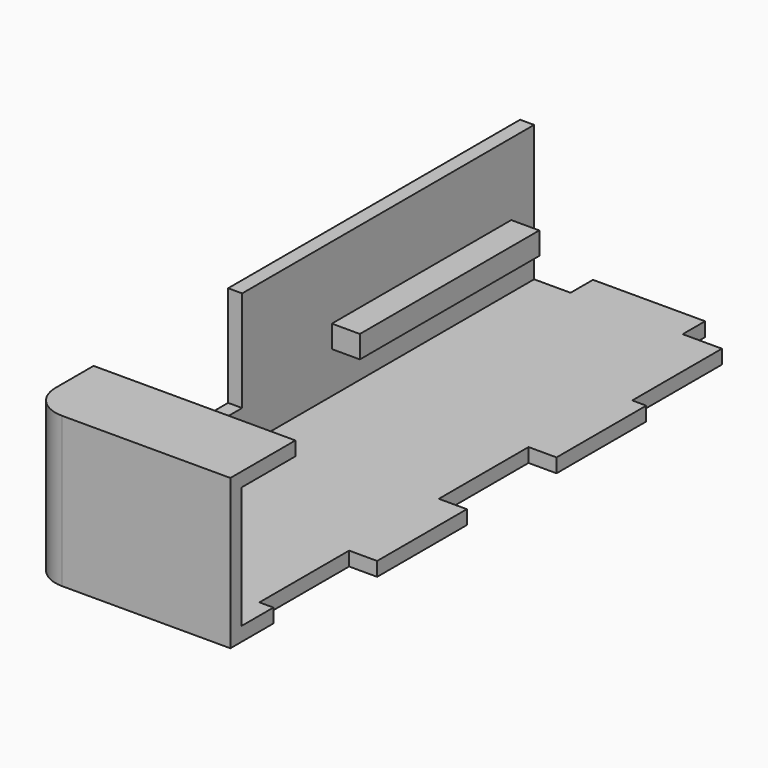
from build123d import *

# Parameters (mm, degrees)
F1_DEPTH = 3.175
F3_DEPTH = 30.7975
F4_W     = 42.545
F4_H     = 15.24
F5_DEPTH = 3.175
F6_W     = 38.1
F6_H     = 22.86
F7_DEPTH = 48.896
F8_W     = 50.8
F8_H     = 5.08
F9_DEPTH = 6.35
F10_R    = 7.62


with BuildPart() as f1:
    # F0 (on Top) → F1 (new body)
    with BuildSketch(Plane.XY):
        Polygon((-21.1101771393, 107.2532582595), (-32.5401771393, 107.2532582595), (-32.5401771393, -31.9387417405), (13.1798228607, -31.9387417405), (13.1798228607, -19.7467417405), (10.0048228607, -19.7467417405), (10.0048228607, 5.6532582595), (13.1798228607, 5.6532582595), (16.3548228607, 5.6532582595), (16.3548228607, 31.0532582595), (13.1798228607, 31.0532582595), (10.0048228607, 31.0532582595), (10.0048228607, 56.4532582595), (13.1798228607, 56.4532582595), (16.3548228607, 56.4532582595), (16.3548228607, 81.8532582595), (13.1798228607, 81.8532582595), (13.1798228607, 107.2532582595), (10.0048228607, 107.2532582595), (4.2898228607, 107.2532582595), (4.2898228607, 113.6032582595), (-21.1101771393, 113.6032582595), align=None)
    extrude(amount=F1_DEPTH)

    # F2 (on face) → F3 (join)
    with BuildSketch(Plane.XY.offset(3.175)):
        Polygon((13.1798228607, -28.7637417405), (-29.3651771393, -28.7637417405), (-29.3651771393, 107.2532582595), (-32.5401771393, 107.2532582595), (-32.5401771393, -31.9387417405), (13.1798228607, -31.9387417405), align=None)
    extrude(amount=F3_DEPTH)

    # F4 (on face) → F5 (join)
    with BuildSketch(Plane.XY.offset(33.9725)):
        with Locations((-8.0926771393, -21.1437417405)):
            Rectangle(F4_W, F4_H)
    extrude(amount=-F5_DEPTH)

    # F6 (on face) → F7 (cut, through all)
    with BuildSketch(Plane(origin=(-32.5401771393, 0, 0), x_dir=(0, -1, 0), z_dir=(-1, 0, 0))):
        with Locations((-5.5262582595, 22.5425)):
            Rectangle(F6_W, F6_H)
    extrude(amount=-F7_DEPTH, mode=Mode.SUBTRACT)

    # F8 (on face) → F9 (join)
    with BuildSketch(Plane.YZ.offset(-29.3651771393)):
        with Locations((75.3762582595, 15.08125)):
            Rectangle(F8_W, F8_H)
    extrude(amount=F9_DEPTH)

    # F10
    f10_edges = [f1.edges().sort_by_distance(p)[0] for p in [
        (-32.540177, -31.938742, 16.98625),
    ]]
    fillet(f10_edges, radius=F10_R)


solid = f1.part
